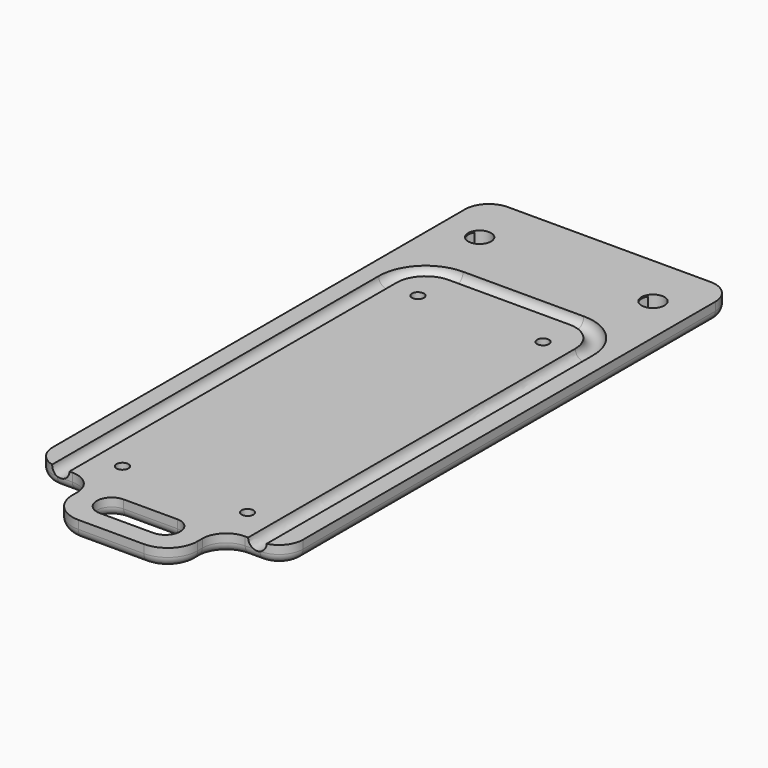
from build123d import *

# Parameters (mm, degrees)
PAD046_DEPTH      = 3.2
PAD047_DEPTH      = 7
PAD047_DEPTH_BACK = 2
SKETCH124_R       = 3.848373
PAD048_DEPTH      = 8
PAD048_DEPTH_BACK = 2
PAD049_DEPTH      = 7
SKETCH110_R       = 3
PAD042_DEPTH      = 6
FILLET_R          = 3.2
POCKET042_DEPTH   = 0.5


with BuildPart() as m4_bolt_cavity:
    # Sketch116 → Revolution003 (revolve)
    with BuildSketch(Plane.XZ):
        Polygon((0, 0), (3.5, 0), (3.5, -4), (2, -4), (2, -14), (0, -14), align=None)
    revolve(axis=Axis((0, 0, 0), (0, 0, 1)))

    # Sketch117 → Pad046 (new body)
    with BuildSketch(Plane.XY.offset(-8.8)):
        Polygon((2.020726, 3.5), (-2.020726, 3.5), (-4.041452, 0), (-2.020726, -3.5), (2.020726, -3.5), (4.041452, 0), align=None)
    extrude(amount=-PAD046_DEPTH)


with BuildPart() as body032:
    # Body032 base: copy of m4-bolt-cavity
    add(m4_bolt_cavity.part)


with BuildPart() as body032_1:
    # Body032 placement: moved
    add(body032.part.moved(Location((21, 40, 28.5))))


with BuildPart() as body033:
    # Body033 base: copy of Body032
    add(body032_1.part)


with BuildPart() as body033_1:
    # Clone003 placement: moved
    add(body033.part.moved(Location((2, 5, -4.5))))


with BuildPart() as body033_2:
    # Body033 placement: moved
    add(body033_1.part.moved(Location((-44, -5, 4.5))))


with BuildPart() as roller_cavity_clone_top:
    # Sketch123 → Pad047 (new body, two sides)
    with BuildSketch(Plane.XY) as pad047_sk:
        with BuildLine():
            ThreePointArc((-35, 2), (-37, 0), (-35, -2))
            Line((-35, -2), (35, -2))
            ThreePointArc((35, -2), (37, 0), (35, 2))
            Line((-35, 2), (35, 2))
        make_face()
    extrude(amount=PAD047_DEPTH)
    extrude(pad047_sk.sketch, amount=-PAD047_DEPTH_BACK)

    # Sketch124 → Pad048 (join, two sides)
    with BuildSketch(Plane.XY) as pad048_sk:
        with Locations((-29.099392, 0)):
            Circle(SKETCH124_R)
        with Locations((29.099392, 0)):
            Circle(SKETCH124_R)
    extrude(amount=PAD048_DEPTH)
    extrude(pad048_sk.sketch, amount=-PAD048_DEPTH_BACK)

    # Sketch122 → Pad049 (join, symmetric)
    with BuildSketch(Plane.XY):
        with BuildLine():
            ThreePointArc((-15, 6.5), (-21.5, 0), (-15, -6.5))
            Line((-15, -6.5), (15, -6.5))
            ThreePointArc((15, -6.5), (21.5, 0), (15, 6.5))
            Line((-15, 6.5), (15, 6.5))
        make_face()
    extrude(amount=PAD049_DEPTH, both=True)


with BuildPart() as roller_cavity_clone_top_1:
    # Body037 placement: moved
    add(roller_cavity_clone_top.part.moved(Location((0, 76, 19))))


with BuildPart() as roller_cavity_clone_top_2:
    # Clone007 placement: moved
    add(roller_cavity_clone_top_1.part.moved(Location((0, 0, -4))))


with BuildPart() as body041:
    # Body041 base: copy of m4-bolt-cavity
    add(m4_bolt_cavity.part)


with BuildPart() as body041_1:
    # Body041 placement: moved
    add(body041.part.moved(Location((-21, -84, 28.5))))


with BuildPart() as body042:
    # Body042 base: copy of m4-bolt-cavity
    add(m4_bolt_cavity.part)


with BuildPart() as body042_1:
    # Body042 placement: moved
    add(body042.part.moved(Location((21, -84, 28.5))))


with BuildPart() as top_cavities:
    # AdditivePipe001: sweep along a path in Sketch109
    with BuildLine(Plane.XY.offset(22.5)) as additivepipe001_path:
        Line((-33, -100), (-33, 42.25))
        ThreePointArc((-33, 42.25), (-29.265611, 51.265611), (-20.25, 55))
        Line((-20.25, 55), (20.25, 55))
        ThreePointArc((20.25, 55), (29.265611, 51.265611), (33, 42.25))
        Line((33, 42.25), (33, -100))
    # Sketch110 → AdditivePipe001 (sweep)
    with BuildSketch(Plane(origin=(-33, 0, 22.5), x_dir=(1, 0, 0), z_dir=(0, -1, 0))):
        Circle(SKETCH110_R)
    sweep(path=additivepipe001_path.line, is_frenet=True)

    # Fusion: union Body032, Body033, roller-cavity-clone-top, Body041, Body042
    add(body032_1.part)
    add(body033_2.part)
    add(roller_cavity_clone_top_2.part)
    add(body041_1.part)
    add(body042_1.part)


with BuildPart() as top:
    # Sketch106 → Pad042 (new body)
    with BuildSketch(Plane.XY):
        with BuildLine():
            Line((-42, 86), (-42, -87))
            ThreePointArc((-42, -87), (-39.656854, -92.656854), (-34, -95))
            Line((-34, -95), (-29, -95))
            ThreePointArc((-21, -103), (-23.343146, -97.343146), (-29, -95))
            Line((-21, -103), (-21, -105))
            ThreePointArc((-21, -105), (-18.071068, -112.071068), (-11, -115))
            Line((-11, -115), (11, -115))
            ThreePointArc((11, -115), (18.071068, -112.071068), (21, -105))
            Line((21, -105), (21, -103))
            ThreePointArc((29, -95), (23.343146, -97.343146), (21, -103))
            Line((34, -95), (29, -95))
            ThreePointArc((34, -95), (39.656854, -92.656854), (42, -87))
            Line((42, -87), (42, 86))
            ThreePointArc((42, 86), (39.656854, 91.656854), (34, 94))
            Line((34, 94), (-34, 94))
            ThreePointArc((-34, 94), (-39.656854, 91.656854), (-42, 86))
        make_face()
        with BuildLine():
            ThreePointArc((-9, -98.5), (-14, -103.5), (-9, -108.5))
            Line((-9, -108.5), (9, -108.5))
            ThreePointArc((9, -108.5), (14, -103.5), (9, -98.5))
            Line((-9, -98.5), (9, -98.5))
        make_face(mode=Mode.SUBTRACT)
    extrude(amount=-PAD042_DEPTH)

    # Fillet
    fillet_edges = [top.edges().sort_by_distance(p)[0] for p in [
        (0, -115, -6),
        (18.071068, -112.071068, -6),
        (23.343146, -97.343146, -6),
        (21, -104, -6),
        (31.5, -95, -6),
        (39.656854, -92.656854, -6),
        (42, -0.5, -6),
        (39.656854, 91.656854, -6),
        (0, 94, -6),
        (-39.656854, 91.656854, -6),
        (-42, -0.5, -6),
        (-18.071068, -112.071068, -6),
        (-21, -104, -6),
        (-23.343146, -97.343146, -6),
        (-39.656854, -92.656854, -6),
        (-31.5, -95, -6),
        (14, -103.5, -6),
        (0, -98.5, -6),
        (0, -108.5, -6),
        (-14, -103.5, -6),
    ]]
    fillet(fillet_edges, radius=FILLET_R)

    # Sketch112 → Pocket042 (cut)
    with BuildSketch(Plane(origin=(0, -25, -6), x_dir=(1, 0, 0), z_dir=(0, 0, -1))):
        with BuildLine():
            Line((-15.448639, 29.368456), (-15.448639, -37.904488))
            Line((-15.448639, -37.904488), (-10.182099, -37.904488))
            Line((-10.182099, -37.904488), (-10.182099, -8.839173))
            Line((-10.182099, -8.839173), (8.728418, -36.448528))
            Line((8.728418, -36.448528), (16.631216, -36.448528))
            Line((16.631216, -36.448528), (-2.025996, -9.296211))
            ThreePointArc((-2.025996, -9.296211), (15.472943, 9.787219), (-1.467107, 29.368456))
            Line((-1.467107, 29.368456), (-15.448639, 29.368456))
        make_face()
        with BuildLine():
            Line((-10.182099, 22.531804), (-10.182099, -1.833519))
            Line((-1.868326, -1.833519), (-10.182099, -1.833519))
            ThreePointArc((-1.868326, -1.833519), (10.456282, 10.355967), (-1.881811, 22.531804))
            Line((-1.881811, 22.531804), (-10.182099, 22.531804))
        make_face(mode=Mode.SUBTRACT)
    extrude(amount=-POCKET042_DEPTH, mode=Mode.SUBTRACT)


with BuildPart() as top_1:
    # Body025 placement: moved
    add(top.part.moved(Location((0, 0, 22.5))))

    # Cut006: cut top-cavities
    add(top_cavities.part, mode=Mode.SUBTRACT)


solid = top_1.part
